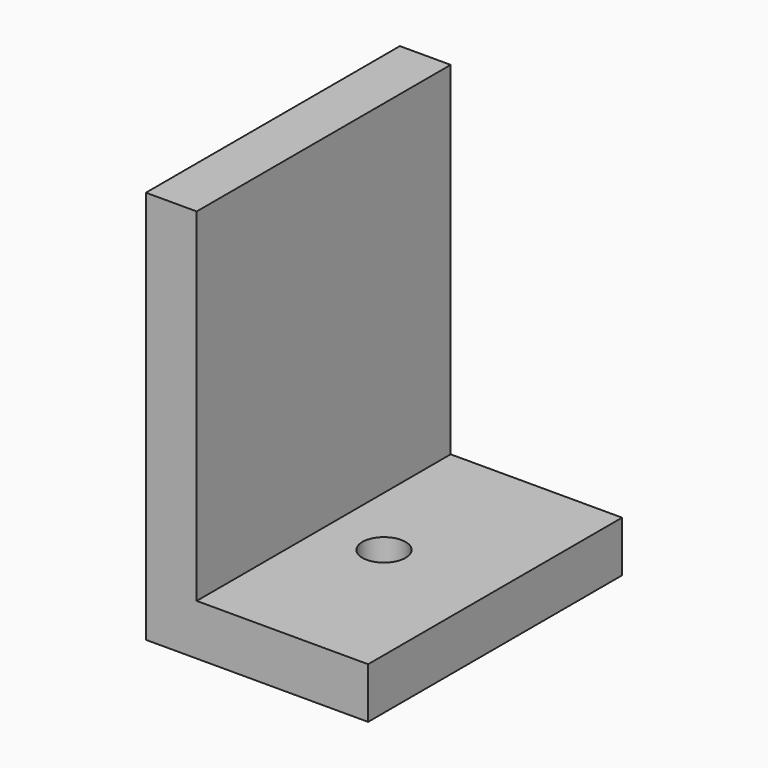
from build123d import *

# Parameters (mm, degrees)
F0_W     = 27
F0_H     = 8
F1_DEPTH = 50
F3_D     = 6.8


with BuildPart() as f1:
    # F0 (on Front) → F1 (new body)
    with BuildSketch(Plane.XZ):
        with Locations((5.1711380631, -2.8987607956)):
            Rectangle(F0_W, F0_H)
        Polygon((-8.3288619369, -6.8987607956), (-8.3288619369, 1.1012392044), (-8.3288619369, 55.1012392044), (-16.3288619369, 55.1012392044), (-16.3288619369, -6.8987607956), align=None)
    extrude(amount=F1_DEPTH)

    # F3 (through all)
    with Locations(Plane(origin=(0, 0, -6.8987607956), x_dir=(1, 0, 0), z_dir=(0, 0, -1))):
        with Locations((1.1711380631, 25)):
            Hole(F3_D / 2)


solid = f1.part
